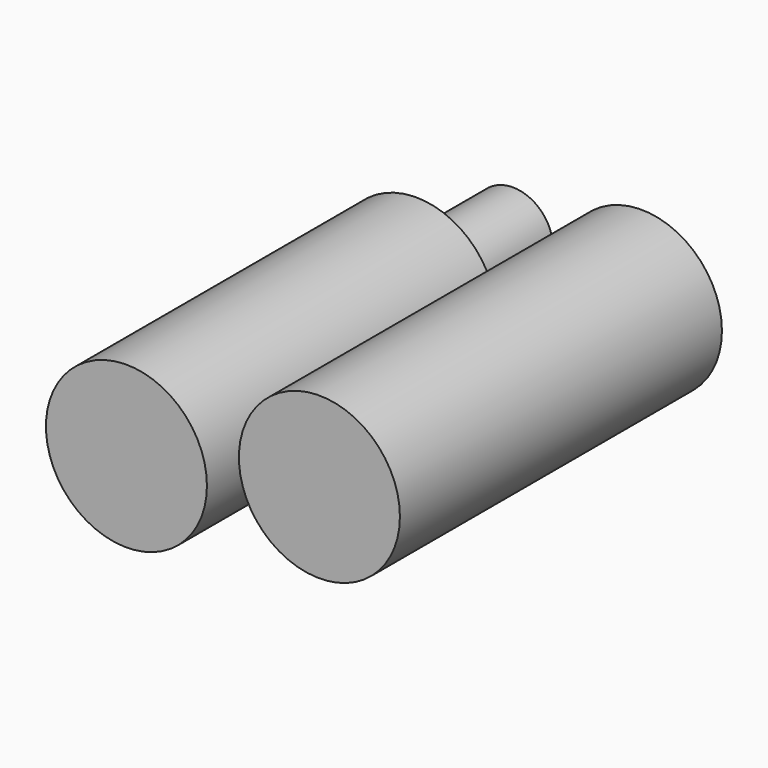
from build123d import *

# Parameters (mm, degrees)
F0_R     = 6.35
F1_DEPTH = 38.1
F2_R     = 12.7
F3_DEPTH = 57.15
F4_R     = 12.7
F4_R_2   = 6.35
F5_DEPTH = 31.75


with BuildPart() as f1:
    # F0 (on Front) → F1 (new body, symmetric)
    with BuildSketch(Plane.XZ):
        with Locations((-42.798918, 36.557414)):
            Circle(F0_R)
    extrude(amount=F1_DEPTH, both=True)

    # F2 (on face) → F3 (join)
    with BuildSketch(Plane.XZ.offset(38.1)):
        with Locations((-42.798918, 36.557414)):
            Circle(F2_R)
    extrude(amount=-F3_DEPTH)


with BuildPart() as f5:
    # F4 (on Front) → F5 (new body, symmetric)
    with BuildSketch(Plane.XZ):
        with Locations((-17.436172, 37.932592)):
            Circle(F4_R)
        with Locations((-17.436172, 37.932592)):
            Circle(F4_R_2, mode=Mode.SUBTRACT)
        with Locations((-17.436172, 37.932592)):
            Circle(F4_R_2)
    extrude(amount=F5_DEPTH, both=True)


solid = Compound([f1.part, f5.part])
